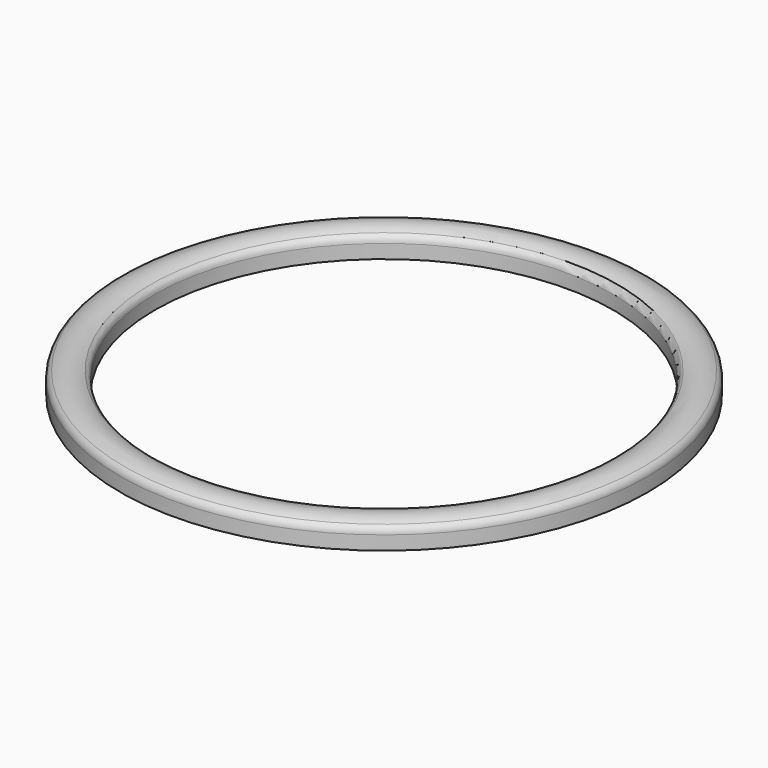
from build123d import *


with BuildPart() as part:
    # Sketch → Revolution (revolve)
    with BuildSketch(Plane.XZ):
        with BuildLine():
            Line((66, 0), (76, 0))
            Line((76, 0), (76, 4))
            ThreePointArc((76, 4), (75.667483, 5.20049), (74.764706, 6.058824))
            ThreePointArc((74.764706, 6.058824), (71, 7), (67.235294, 6.058824))
            ThreePointArc((67.235294, 6.058824), (66.332517, 5.20049), (66, 4))
            Line((66, 4), (66, 0))
        make_face()
    revolve(axis=Axis((0, 0, 0), (0, 0, 1)))


solid = part.part
